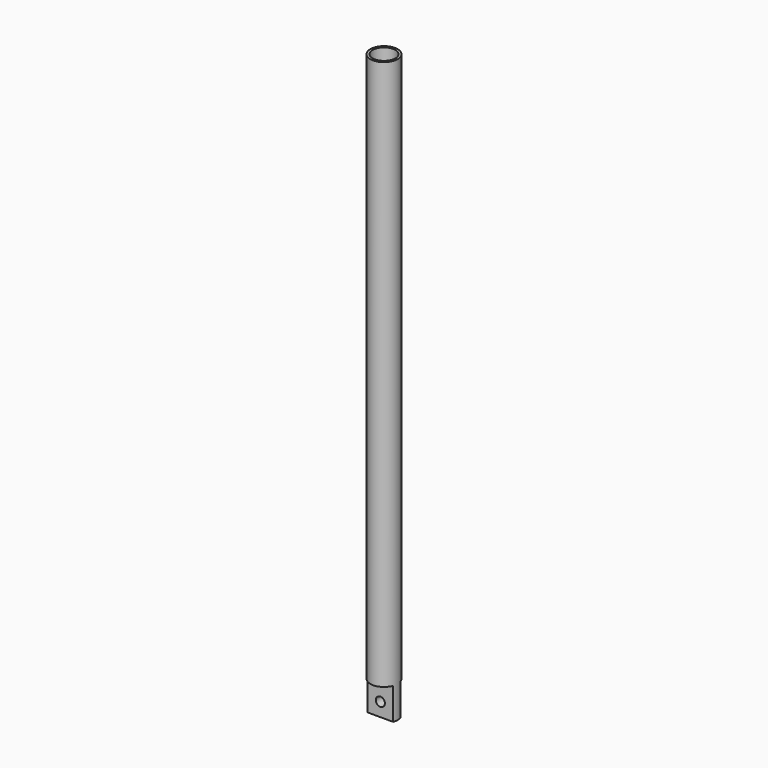
from build123d import *

# Parameters (mm, degrees)
F0_R     = 3
F1_DEPTH = 128
F2_W     = 2
F2_H     = 7
F3_DEPTH = 12.5
F4_R     = 1
F5_DEPTH = 25
F6_R     = 2.5
F7_DEPTH = 110


with BuildPart() as f1:
    # F0 (on Top) → F1 (new body)
    with BuildSketch(Plane.XY):
        Circle(F0_R)
    extrude(amount=F1_DEPTH)

    # F2 (on Right) → F3 (cut, symmetric)
    with BuildSketch(Plane.YZ):
        with Locations((-2, 3.5)):
            Rectangle(F2_W, F2_H)
        with Locations((2, 3.5)):
            Rectangle(F2_W, F2_H)
    extrude(amount=F3_DEPTH, both=True, mode=Mode.SUBTRACT)

    # F4 (on face) → F5 (cut)
    with BuildSketch(Plane(origin=(0, 1, 0), x_dir=(-1, 0, 0), z_dir=(0, 1, 0))):
        with Locations((0, 3)):
            Circle(F4_R)
    extrude(amount=-F5_DEPTH, mode=Mode.SUBTRACT)

    # F6 (on face) → F7 (cut)
    with BuildSketch(Plane.XY.offset(128)):
        Circle(F6_R)
    extrude(amount=-F7_DEPTH, mode=Mode.SUBTRACT)


solid = f1.part
